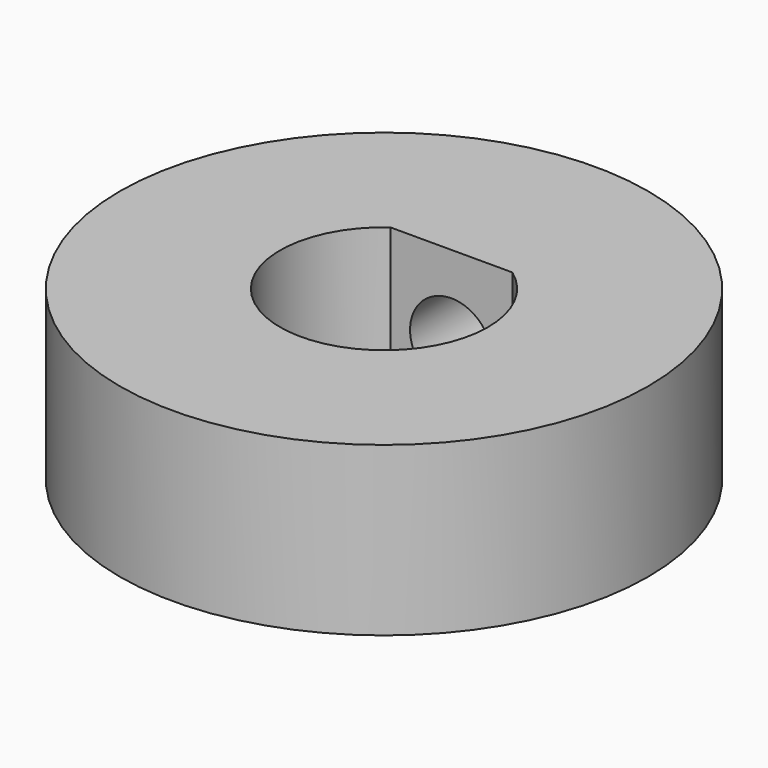
from build123d import *

# Parameters (mm, degrees)
F0_R     = 8
F1_DEPTH = 5.08
F2_R     = 1.25095
F3_DEPTH = 25.4


with BuildPart() as f1:
    # F0 (on Top) → F1 (new body)
    with BuildSketch(Plane.XY):
        Circle(F0_R)
        with BuildLine():
            ThreePointArc((1.849324, 2.55), (2.806053, 1.431281), (3.15, 0))
            ThreePointArc((3.15, 0), (-1.431281, -2.806053), (-1.849324, 2.55))
            ThreePointArc((-1.849324, 2.55), (0, 3.15), (1.849324, 2.55))
        make_face(mode=Mode.SUBTRACT)
        with BuildLine():
            Line((0, 2.55), (1.849324, 2.55))
            ThreePointArc((1.849324, 2.55), (0, 3.15), (-1.849324, 2.55))
            Line((-1.849324, 2.55), (0, 2.55))
        make_face()
    extrude(amount=F1_DEPTH)

    # F2 (on face) → F3 (cut)
    with BuildSketch(Plane.XZ.offset(-2.55)):
        with Locations((0, 2.54)):
            Circle(F2_R)
    extrude(amount=-F3_DEPTH, mode=Mode.SUBTRACT)


solid = f1.part
